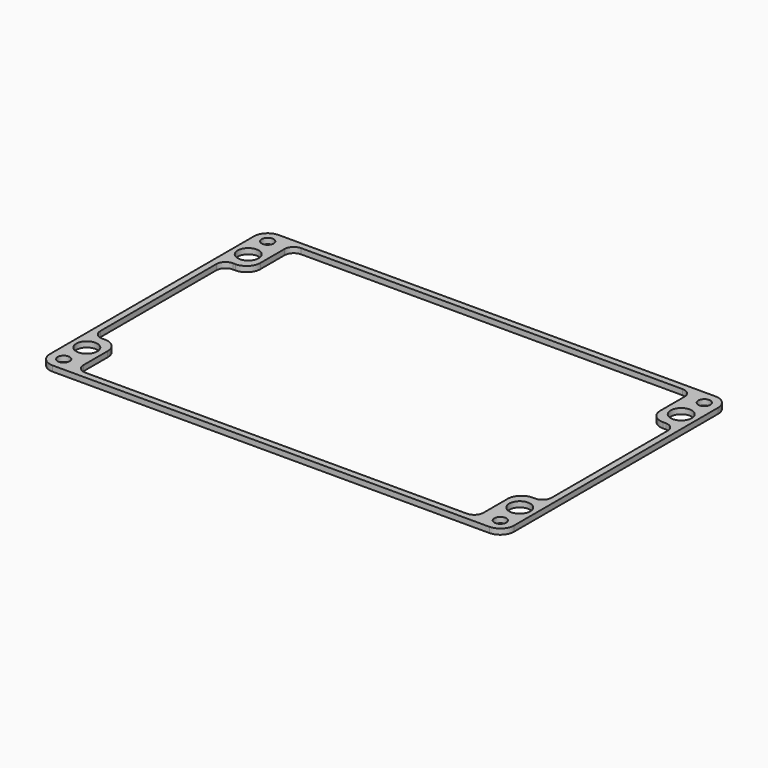
from build123d import *

# Parameters (mm, degrees)
F0_R     = 3.25
F0_R_2   = 5.75
F1_DEPTH = 3


with BuildPart() as f1:
    # F0 (on Top) → F1 (new body)
    with BuildSketch(Plane.XY):
        with BuildLine():
            Line((119, 77), (0, 77))
            Line((0, 77), (-119, 77))
            ThreePointArc((-119, 77), (-124.303301, 74.803301), (-126.5, 69.5))
            Line((-126.5, 69.5), (-126.5, 0))
            Line((-126.5, 0), (-126.5, -69.5))
            ThreePointArc((-126.5, -69.5), (-124.303301, -74.803301), (-119, -77))
            Line((-119, -77), (0, -77))
            Line((0, -77), (119, -77))
            ThreePointArc((119, -77), (124.303301, -74.803301), (126.5, -69.5))
            Line((126.5, -69.5), (126.5, 0))
            Line((126.5, 0), (126.5, 69.5))
            ThreePointArc((126.5, 69.5), (124.303301, 74.803301), (119, 77))
        make_face()
        with Locations((-119, -69.5)):
            Circle(F0_R, mode=Mode.SUBTRACT)
        with Locations((-118, -55)):
            Circle(F0_R_2, mode=Mode.SUBTRACT)
        with Locations((119, -69.5)):
            Circle(F0_R, mode=Mode.SUBTRACT)
        with Locations((118, -55)):
            Circle(F0_R_2, mode=Mode.SUBTRACT)
        with Locations((-118, 55)):
            Circle(F0_R_2, mode=Mode.SUBTRACT)
        with Locations((-119, 69.5)):
            Circle(F0_R, mode=Mode.SUBTRACT)
        with BuildLine():
            Line((-104, 73.5), (0, 73.5))
            Line((0, 73.5), (104, 73.5))
            ThreePointArc((104, 73.5), (107.535534, 72.035534), (109, 68.5))
            Line((109, 68.5), (109, 52))
            ThreePointArc((109, 52), (111.196699, 46.696699), (116.5, 44.5))
            Line((116.5, 44.5), (118, 44.5))
            ThreePointArc((118, 44.5), (121.535534, 43.035534), (123, 39.5))
            Line((123, 39.5), (123, 0))
            Line((123, 0), (123, -39.5))
            ThreePointArc((123, -39.5), (121.535534, -43.035534), (118, -44.5))
            Line((118, -44.5), (116.5, -44.5))
            ThreePointArc((116.5, -44.5), (111.196699, -46.696699), (109, -52))
            Line((109, -52), (109, -68.5))
            ThreePointArc((109, -68.5), (107.535534, -72.035534), (104, -73.5))
            Line((104, -73.5), (0, -73.5))
            Line((0, -73.5), (-104, -73.5))
            ThreePointArc((-104, -73.5), (-107.535534, -72.035534), (-109, -68.5))
            Line((-109, -68.5), (-109, -52))
            ThreePointArc((-109, -52), (-111.196699, -46.696699), (-116.5, -44.5))
            Line((-116.5, -44.5), (-118, -44.5))
            ThreePointArc((-118, -44.5), (-121.535534, -43.035534), (-123, -39.5))
            Line((-123, -39.5), (-123, 0))
            Line((-123, 0), (-123, 39.5))
            ThreePointArc((-123, 39.5), (-121.535534, 43.035534), (-118, 44.5))
            Line((-118, 44.5), (-116.5, 44.5))
            ThreePointArc((-116.5, 44.5), (-111.196699, 46.696699), (-109, 52))
            Line((-109, 52), (-109, 68.5))
            ThreePointArc((-109, 68.5), (-107.535534, 72.035534), (-104, 73.5))
        make_face(mode=Mode.SUBTRACT)
        with Locations((118, 55)):
            Circle(F0_R_2, mode=Mode.SUBTRACT)
        with Locations((119, 69.5)):
            Circle(F0_R, mode=Mode.SUBTRACT)
    extrude(amount=F1_DEPTH)


solid = f1.part
